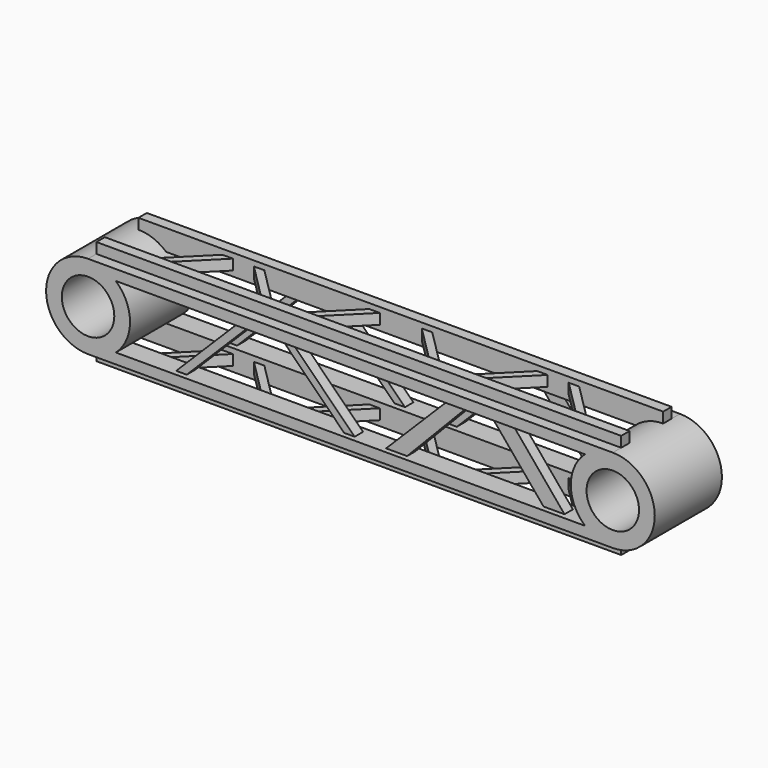
from build123d import *

# Parameters (mm, degrees)
SKETCH_R      = 40
SKETCH_R_2    = 25
PAD_DEPTH     = 40
PAD001_DEPTH  = 500
SKETCH002_R   = 40
SKETCH002_R_2 = 25
PAD002_DEPTH  = 40
PAD003_DEPTH  = 5
PAD004_DEPTH  = 5
PAD005_DEPTH  = 5
PAD006_DEPTH  = 5


with BuildPart() as part:
    # Sketch → Pad (new body, symmetric)
    with BuildSketch(Plane.XZ):
        Circle(SKETCH_R)
        Circle(SKETCH_R_2, mode=Mode.SUBTRACT)
    extrude(amount=PAD_DEPTH, both=True)

    # Sketch001 → Pad001 (join)
    with BuildSketch(Plane.YZ):
        Polygon((-30, 50), (-30, 40), (-40, 40), (-40, 30), (-20, 30), (-20, 50), align=None)
        Polygon((30, 50), (30, 40), (40, 40), (40, 30), (20, 30), (20, 50), align=None)
        Polygon((-30, -50), (-30, -40), (-40, -40), (-40, -30), (-20, -30), (-20, -50), align=None)
        Polygon((30, -50), (30, -40), (40, -40), (40, -30), (20, -30), (20, -50), align=None)
    extrude(amount=PAD001_DEPTH)

    # Sketch002 → Pad002 (join, symmetric)
    with BuildSketch(Plane(origin=(500, 0, 0), x_dir=(1, 0, 0), z_dir=(0, -1, 0))):
        Circle(SKETCH002_R)
        Circle(SKETCH002_R_2, mode=Mode.SUBTRACT)
    extrude(amount=PAD002_DEPTH, both=True)

    # Sketch004 → Pad003 (join, symmetric)
    with BuildSketch(Plane.XZ.offset(-30)):
        Polygon((80, -30), (140, 30), (150, 30), (90, -30), align=None)
        Polygon((450, -30), (430, -30), (380, 30), (400, 30), align=None)
        Polygon((180.003479, 30.370306), (240.003479, -29.629694), (250, -29.629694), (190, 30.370306), align=None)
        Polygon((358.794617, 29.393638), (340, 29.393638), (280, -30.606362), (298.794617, -30.606362), align=None)
    extrude(amount=PAD003_DEPTH, both=True)

    # Sketch003 → Pad004 (join, symmetric)
    with BuildSketch(Plane.XZ.offset(30)):
        Polygon((80, -30), (140, 30), (150, 30), (90, -30), align=None)
        Polygon((450, -30), (430, -30), (380, 30), (400, 30), align=None)
        Polygon((180, 30), (240, -30), (250, -30), (190, 30), align=None)
        Polygon((357.920776, 30), (340, 30), (280, -30), (300, -30), align=None)
    extrude(amount=PAD004_DEPTH, both=True)

    # Sketch006 → Pad005 (join, symmetric)
    with BuildSketch(Plane.XY.offset(-40)):
        Polygon((230, 20), (190, -20), (180, -20), (220, 20), align=None)
        Polygon((160, -20), (120, 20), (110, 20), (150, -20), align=None)
        Polygon((90, 20), (50, -20), (40, -20), (80, 20), align=None)
        Polygon((270, 20), (310, -20), (320, -20), (280, 20), align=None)
        Polygon((340, -20), (380, 20), (390, 20), (350, -20), align=None)
        Polygon((410, 20), (450, -20), (460, -20), (420, 20), align=None)
    extrude(amount=PAD005_DEPTH, both=True)

    # Sketch005 → Pad006 (join, symmetric)
    with BuildSketch(Plane.XY.offset(40)):
        Polygon((230, 20), (190, -20), (180, -20), (220, 20), align=None)
        Polygon((160, -20), (120, 20), (110, 20), (150, -20), align=None)
        Polygon((90, 20), (50, -20), (40, -20), (80, 20), align=None)
        Polygon((270, 20), (310, -20), (320, -20), (280, 20), align=None)
        Polygon((340, -20), (380, 20), (390, 20), (350, -20), align=None)
        Polygon((410, 20), (450, -20), (460, -20), (420, 20), align=None)
    extrude(amount=PAD006_DEPTH, both=True)


solid = part.part
